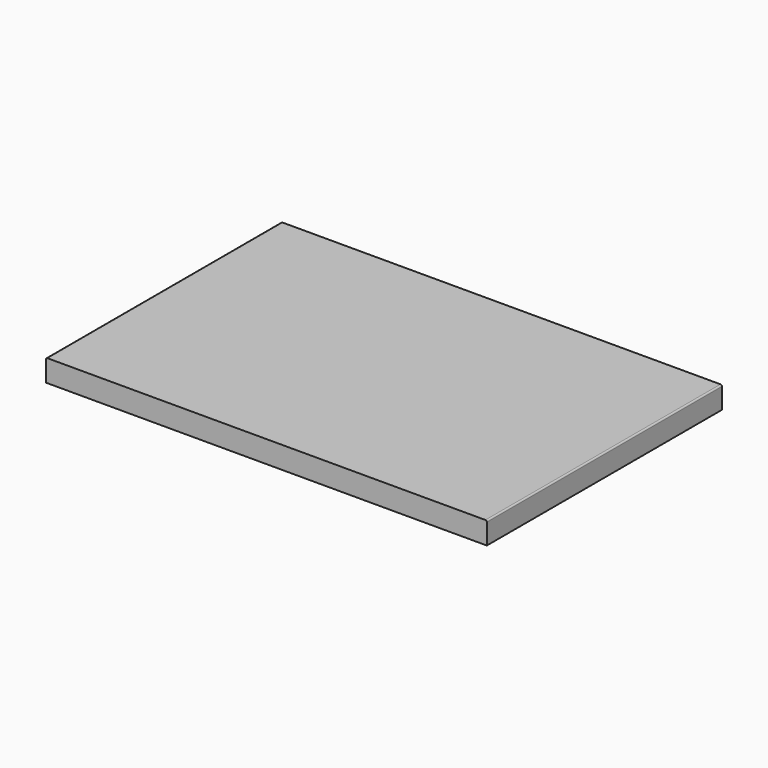
from build123d import *

# Parameters (mm, degrees)
F0_W     = 600
F0_H     = 30
F1_DEPTH = 400
F2_R     = 2


with BuildPart() as f1:
    # F0 (on Front) → F1 (new body)
    with BuildSketch(Plane.XZ):
        Rectangle(F0_W, F0_H)
    extrude(amount=F1_DEPTH)

    # F2
    f2_edges = [f1.edges().sort_by_distance(p)[0] for p in [
        (300, -200, 15),
        (-300, -200, 15),
    ]]
    fillet(f2_edges, radius=F2_R)


solid = f1.part
